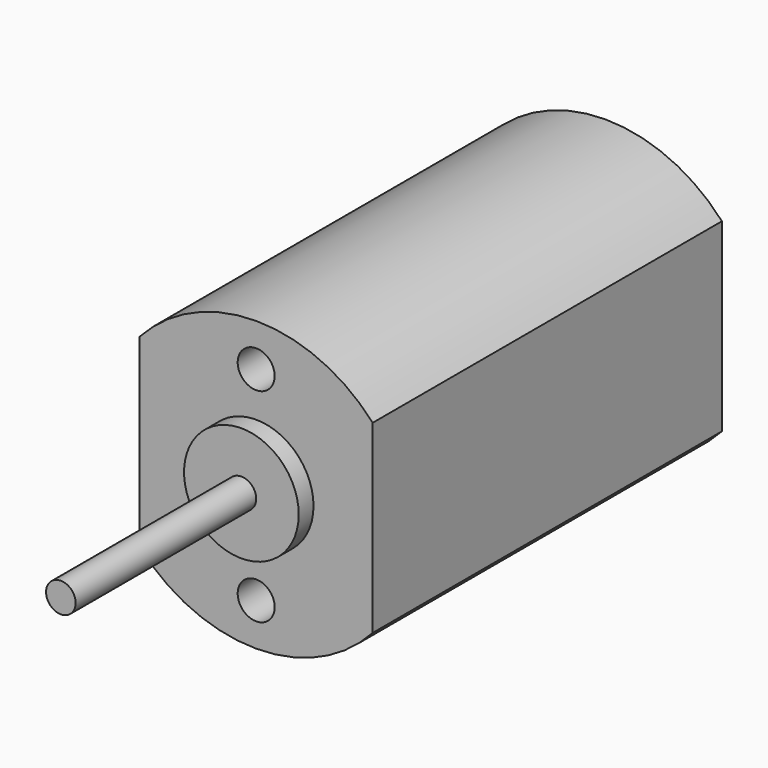
from build123d import *

# Parameters (mm, degrees)
F1_DEPTH  = 14.986
F2_R      = 0.508
F3_DEPTH  = 8.382
F4_R      = 0.635
F5_DEPTH  = 5.08
F6_R      = 1.9685
F7_DEPTH  = 0.635
F8_R      = 1.905
F9_DEPTH  = 1.143
F11_DEPTH = 1.524


with BuildPart() as f1:
    # F0 (on Front) → F1 (new body)
    with BuildSketch(Plane.XZ):
        with BuildLine():
            Line((4.0005, -3.175), (4.0005, 3.175))
            ThreePointArc((4.0005, 3.175), (0, 4.953), (-4.0005, 3.175))
            Line((-4.0005, 3.175), (-4.0005, -3.175))
            ThreePointArc((-4.0005, -3.175), (0, -4.953), (4.0005, -3.175))
        make_face()
    extrude(amount=-F1_DEPTH)

    # F2 (on face) → F3 (join)
    with BuildSketch(Plane.XZ):
        Circle(F2_R)
    extrude(amount=F3_DEPTH)

    # F4 (on face) → F5 (cut)
    with BuildSketch(Plane.XZ):
        with Locations((0, 3.4925)):
            Circle(F4_R)
        with Locations((0, -3.4925)):
            Circle(F4_R)
    extrude(amount=-F5_DEPTH, mode=Mode.SUBTRACT)

    # F6 (on face) → F7 (join)
    with BuildSketch(Plane.XZ):
        Circle(F6_R)
    extrude(amount=F7_DEPTH)

    # F8 (on face) → F9 (join)
    with BuildSketch(Plane(origin=(0, 14.986, 0), x_dir=(-1, 0, 0), z_dir=(0, 1, 0))):
        Circle(F8_R)
    extrude(amount=F9_DEPTH)

    # F10 (on face) → F11 (join)
    with BuildSketch(Plane(origin=(0, 14.986, 0), x_dir=(-1, 0, 0), z_dir=(0, 1, 0))):
        Polygon((-2.028809, -2.891869), (-2.13069, -3.124541), (-0.850995, -3.684889), (-0.749114, -3.452217), align=None)
        Polygon((0.850995, 3.684889), (0.749114, 3.452217), (2.028809, 2.891869), (2.13069, 3.124541), align=None)
    extrude(amount=F11_DEPTH)


solid = f1.part
